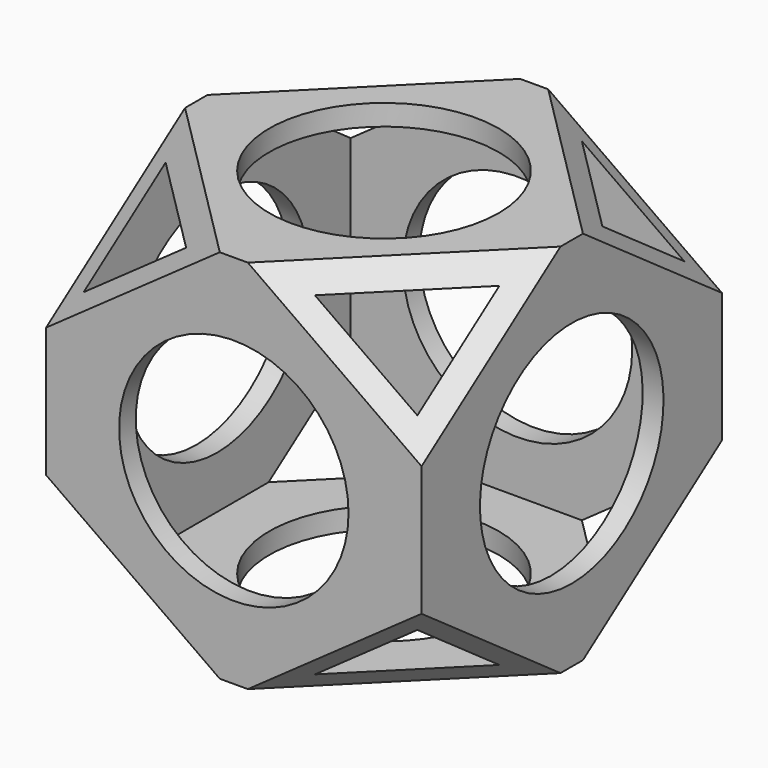
from build123d import *

# Parameters (mm, degrees)
BOX004_W                = 140
BOX004_H                = 112
BOX004_DEPTH            = 112
BOX004_ROLL_ANGLE       = 45
BOX004_PLACEMENT_ANGLE  = -45
BOX005_W                = 180
BOX005_H                = 180
BOX005_DEPTH            = 180
BOX005_ROLL_ANGLE       = 45
BOX005_PLACEMENT_ANGLE  = -45
BOX002_W                = 140
BOX002_H                = 112
BOX002_DEPTH            = 112
BOX002_ROLL_ANGLE       = 45
BOX002_PLACEMENT_ANGLE  = 45
BOX003_W                = 180
BOX003_H                = 180
BOX003_DEPTH            = 180
BOX003_ROLL_ANGLE       = 45
BOX003_PLACEMENT_ANGLE  = 45
CYLINDER002_R           = 27.5
CYLINDER002_DEPTH       = 120
CYLINDER002_PITCH_ANGLE = 90
CYLINDER001_R           = 27.5
CYLINDER001_DEPTH       = 120
CYLINDER001_ROLL_ANGLE  = 90
CYLINDER_R              = 27.5
CYLINDER_DEPTH          = 120
BOX001_W                = 80
BOX001_H                = 80
BOX001_DEPTH            = 80
BOX_W                   = 90
BOX_H                   = 90
BOX_DEPTH               = 90


with BuildPart() as cube004:
    # Box004 → Box004 (new body)
    with BuildSketch(Plane.XY):
        with Locations((70, 56)):
            Rectangle(BOX004_W, BOX004_H)
    extrude(amount=BOX004_DEPTH)


with BuildPart() as cube004_1:
    # Box004 roll: moved
    add(cube004.part.rotate(Axis((0, 0, 0), (1, 0, 0)), BOX004_ROLL_ANGLE))


with BuildPart() as cube004_2:
    # Box004 placement: moved
    add(cube004_1.part.moved(Location((-49.497475, 49.497475, -79.195959))).rotate(Axis((-49.497475, 49.497475, -79.195959), (0, 0, 1)), BOX004_PLACEMENT_ANGLE))


with BuildPart() as cut002:
    # Box005 → Box005 (new body)
    with BuildSketch(Plane.XY):
        with Locations((90, 90)):
            Rectangle(BOX005_W, BOX005_H)
    extrude(amount=BOX005_DEPTH)


with BuildPart() as cut002_1:
    # Box005 roll: moved
    add(cut002.part.rotate(Axis((0, 0, 0), (1, 0, 0)), BOX005_ROLL_ANGLE))


with BuildPart() as cut002_2:
    # Box005 placement: moved
    add(cut002_1.part.moved(Location((-63.63961, 63.63961, -127.279221))).rotate(Axis((-63.63961, 63.63961, -127.279221), (0, 0, 1)), BOX005_PLACEMENT_ANGLE))

    # Cut002: cut Cube004
    add(cube004_2.part, mode=Mode.SUBTRACT)


with BuildPart() as cube002:
    # Box002 → Box002 (new body)
    with BuildSketch(Plane.XY):
        with Locations((70, 56)):
            Rectangle(BOX002_W, BOX002_H)
    extrude(amount=BOX002_DEPTH)


with BuildPart() as cube002_1:
    # Box002 roll: moved
    add(cube002.part.rotate(Axis((0, 0, 0), (1, 0, 0)), BOX002_ROLL_ANGLE))


with BuildPart() as cube002_2:
    # Box002 placement: moved
    add(cube002_1.part.moved(Location((-49.497475, -49.497475, -79.195959))).rotate(Axis((-49.497475, -49.497475, -79.195959), (0, 0, 1)), BOX002_PLACEMENT_ANGLE))


with BuildPart() as cut001:
    # Box003 → Box003 (new body)
    with BuildSketch(Plane.XY):
        with Locations((90, 90)):
            Rectangle(BOX003_W, BOX003_H)
    extrude(amount=BOX003_DEPTH)


with BuildPart() as cut001_1:
    # Box003 roll: moved
    add(cut001.part.rotate(Axis((0, 0, 0), (1, 0, 0)), BOX003_ROLL_ANGLE))


with BuildPart() as cut001_2:
    # Box003 placement: moved
    add(cut001_1.part.moved(Location((-63.63961, -63.63961, -127.279221))).rotate(Axis((-63.63961, -63.63961, -127.279221), (0, 0, 1)), BOX003_PLACEMENT_ANGLE))

    # Cut001: cut Cube002
    add(cube002_2.part, mode=Mode.SUBTRACT)


with BuildPart() as cylinder002:
    # Cylinder002 → Cylinder002 (new body)
    with BuildSketch(Plane.XY):
        Circle(CYLINDER002_R)
    extrude(amount=CYLINDER002_DEPTH)


with BuildPart() as cylinder002_1:
    # Cylinder002 pitch: moved
    add(cylinder002.part.rotate(Axis((0, 0, 0), (0, 1, 0)), CYLINDER002_PITCH_ANGLE))


with BuildPart() as cylinder002_2:
    # Cylinder002 placement: moved
    add(cylinder002_1.part.moved(Location((-60, 0, 0))))


with BuildPart() as cylinder001:
    # Cylinder001 → Cylinder001 (new body)
    with BuildSketch(Plane.XY):
        Circle(CYLINDER001_R)
    extrude(amount=CYLINDER001_DEPTH)


with BuildPart() as cylinder001_1:
    # Cylinder001 roll: moved
    add(cylinder001.part.rotate(Axis((0, 0, 0), (1, 0, 0)), CYLINDER001_ROLL_ANGLE))


with BuildPart() as cylinder001_2:
    # Cylinder001 placement: moved
    add(cylinder001_1.part.moved(Location((0, 60, 0))))


with BuildPart() as cylinder:
    # Cylinder → Cylinder (new body)
    with BuildSketch(Plane.XY.offset(-60)):
        Circle(CYLINDER_R)
    extrude(amount=CYLINDER_DEPTH)


with BuildPart() as fusion:
    # Box001 → Box001 (new body)
    with BuildSketch(Plane(origin=(-40, -40, -40), x_dir=(1, 0, 0), z_dir=(0, 0, 1))):
        with Locations((40, 40)):
            Rectangle(BOX001_W, BOX001_H)
    extrude(amount=BOX001_DEPTH)

    # Fusion: union Cylinder002, Cylinder001, Cylinder
    add(cylinder002_2.part)
    add(cylinder001_2.part)
    add(cylinder.part)


with BuildPart() as cut004:
    # Box → Box (new body)
    with BuildSketch(Plane(origin=(-45, -45, -45), x_dir=(1, 0, 0), z_dir=(0, 0, 1))):
        with Locations((45, 45)):
            Rectangle(BOX_W, BOX_H)
    extrude(amount=BOX_DEPTH)

    # Cut: cut Fusion
    add(fusion.part, mode=Mode.SUBTRACT)

    # Cut003: cut Cut001
    add(cut001_2.part, mode=Mode.SUBTRACT)

    # Cut004: cut Cut002
    add(cut002_2.part, mode=Mode.SUBTRACT)


solid = cut004.part
